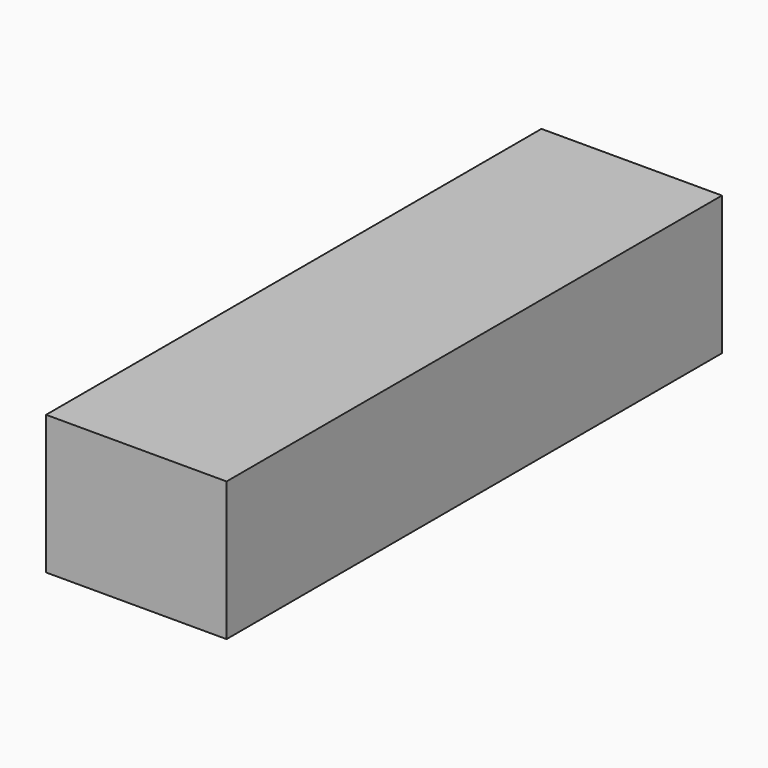
from build123d import *

# Parameters (mm, degrees)
F0_W     = 65
F0_H     = 50
F1_DEPTH = 223
F3_R     = 13
F4_DEPTH = 36


with BuildPart() as f1:
    # F0 (on Front) → F1 (new body)
    with BuildSketch(Plane.XZ):
        Rectangle(F0_W, F0_H)
    extrude(amount=F1_DEPTH)

    # F3 (on face) → F4 (cut)
    with BuildSketch(Plane(origin=(0, 0, 0), x_dir=(-1, 0, 0), z_dir=(0, 1, 0))):
        Circle(F3_R)
    extrude(amount=-F4_DEPTH, mode=Mode.SUBTRACT)


solid = f1.part
